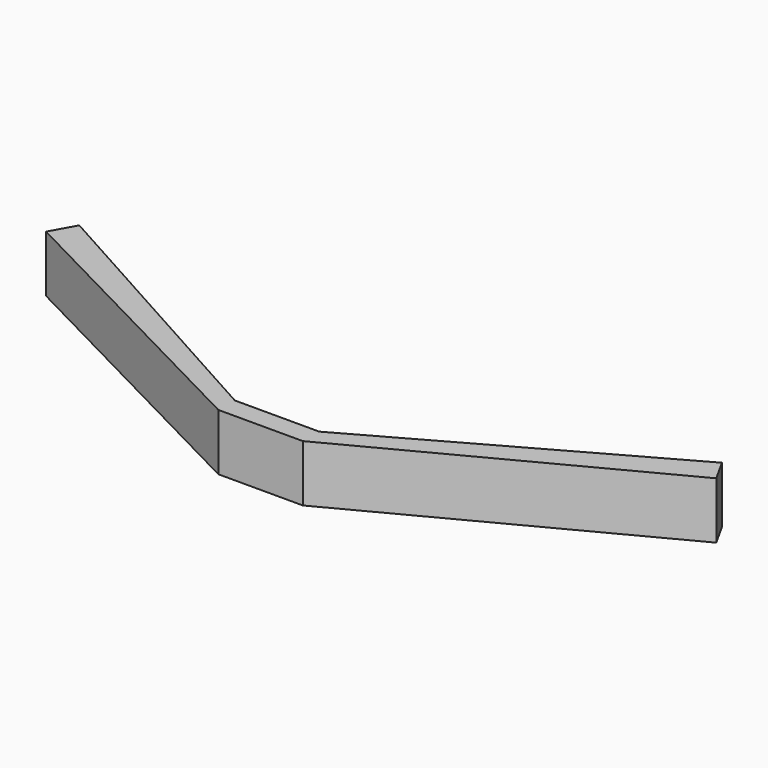
from build123d import *

# Parameters (mm, degrees)
F0_W     = 7.947458
F0_H     = 1.932221
F1_DEPTH = 5.334


with BuildPart() as f1:
    # F0 (on Top) → F1 (new body)
    with BuildSketch(Plane.XY):
        Polygon((18.552113, 1.932221), (18.552113, 0), (45.986039, 14.360375), (44.759143, 16.558673), align=None)
        Polygon((-17.014322, 14.249988), (10.604655, 0), (10.604655, 1.932221), (-15.732167, 16.558673), align=None)
        with Locations((14.578384, 0.96611)):
            Rectangle(F0_W, F0_H)
    extrude(amount=F1_DEPTH)


solid = f1.part
